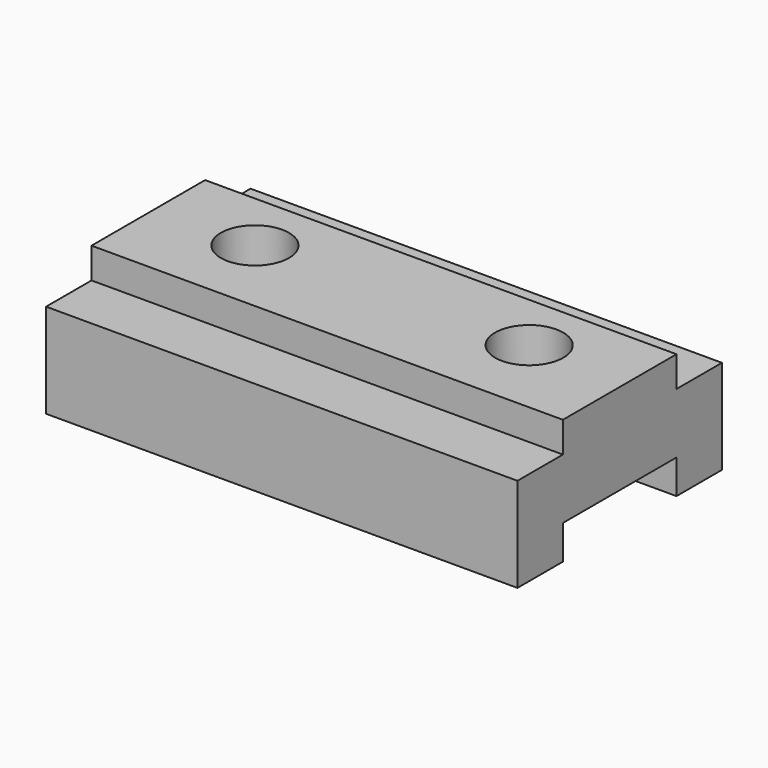
from build123d import *

# Parameters (mm, degrees)
F1_DEPTH = 4216.4
F2_R     = 304.8
F3_DEPTH = 1270


with BuildPart() as f1:
    # F0 (on Right) → F1 (new body)
    with BuildSketch(Plane.YZ):
        Polygon((-466.250597, 1120.50734), (-1736.250597, 1120.50734), (-1736.250597, 846.570015), (-2244.250597, 846.570015), (-2244.250597, 2.90734), (-1736.250597, 2.90734), (-1736.250597, 307.70734), (-466.250597, 307.70734), (-466.250597, 2.90734), (41.749403, 2.90734), (41.749403, 846.570015), (-466.250597, 846.570015), align=None)
    extrude(amount=-F1_DEPTH)

    # F2 (on face) → F3 (cut)
    with BuildSketch(Plane.XY.offset(1120.50734)):
        with Locations((-3327.4, -1020.415187)):
            Circle(F2_R)
        with Locations((-889, -1002.240896)):
            Circle(F2_R)
    extrude(amount=-F3_DEPTH, mode=Mode.SUBTRACT)


solid = f1.part
